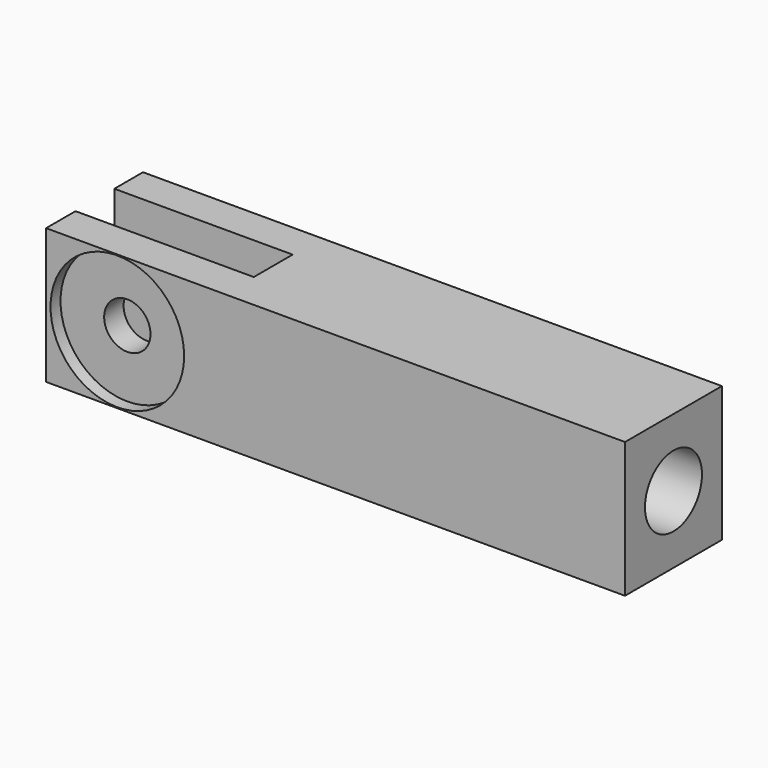
from build123d import *

# Parameters (mm, degrees)
F0_W      = 8.636
F0_H      = 9.652
F1_DEPTH  = 41.275
F2_R      = 2.54
F3_DEPTH  = 25.4
F5_R      = 1.651
F6_DEPTH  = 8.636
F7_R      = 4.7625
F8_DEPTH  = 0.889
F9_R      = 4.7625
F10_DEPTH = 0.889
F4_W      = 12.710963
F4_H      = 3.461967
F11_DEPTH = 9.652


with BuildPart() as f1:
    # F0 (on Right) → F1 (new body)
    with BuildSketch(Plane.YZ):
        Rectangle(F0_W, F0_H)
    extrude(amount=F1_DEPTH)

    # F2 (on face) → F3 (cut)
    with BuildSketch(Plane.YZ.offset(41.275)):
        Circle(F2_R)
    extrude(amount=-F3_DEPTH, mode=Mode.SUBTRACT)

    # F5 (on face) → F6 (cut)
    with BuildSketch(Plane.XZ.offset(4.318)):
        with Locations((5.08, 0)):
            Circle(F5_R)
    extrude(amount=-F6_DEPTH, mode=Mode.SUBTRACT)

    # F7 (on face) → F8 (cut)
    with BuildSketch(Plane.XZ.offset(4.318)):
        with Locations((5.08, 0)):
            Circle(F7_R)
    extrude(amount=-F8_DEPTH, mode=Mode.SUBTRACT)

    # F9 (on face) → F10 (cut)
    with BuildSketch(Plane(origin=(0, 4.318, 0), x_dir=(-1, 0, 0), z_dir=(0, 1, 0))):
        with Locations((-5.08, 0)):
            Circle(F9_R)
    extrude(amount=-F10_DEPTH, mode=Mode.SUBTRACT)

    # F4 (on face) → F11 (cut)
    with BuildSketch(Plane.XY.offset(4.826)):
        with Locations((6.355481, 0.034316)):
            Rectangle(F4_W, F4_H)
    extrude(amount=-F11_DEPTH, mode=Mode.SUBTRACT)


solid = f1.part
